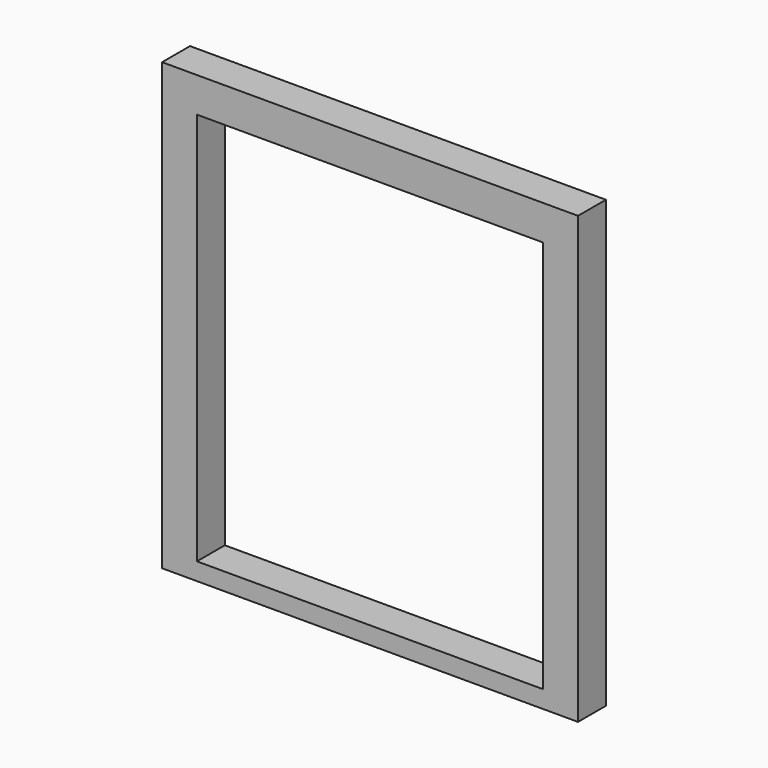
from build123d import *

# Parameters (mm, degrees)
F1_DEPTH = 300


with BuildPart() as f1:
    # F0 (on Front) → F1 (new body)
    with BuildSketch(Plane.XZ):
        Polygon((300, 150), (300, 3535), (3280, 3535), (3280, 150), (3580, 150), (3580, 3835), (0, 3835), (0, 150), align=None)
        Polygon((3280, 150), (300, 150), (0, 150), (0, 0), (3580, 0), (3580, 150), align=None)
    extrude(amount=F1_DEPTH)


solid = f1.part
